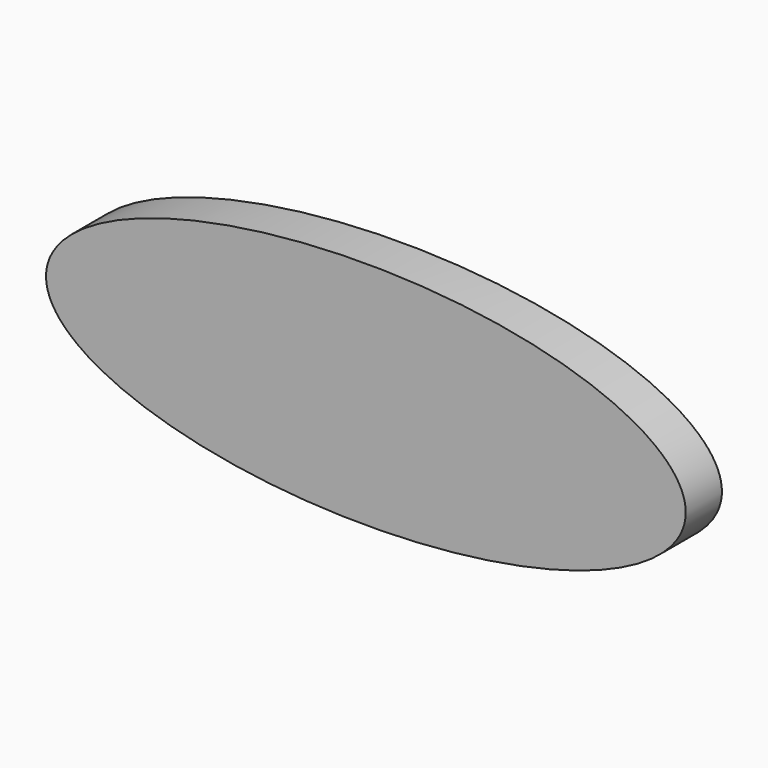
from build123d import *

# Parameters (mm, degrees)
F1_DEPTH = 2.286


with BuildPart() as f1:
    # F0 (on Front) → F1 (new body)
    with BuildSketch(Plane.XZ):
        with BuildLine():
            add(Edge.make_bspline(
                [(-27.813001, 26.7462), (-27.813001, 36.82179), (-52.044599, 31.783995), (-76.276198, 26.7462), (-52.044599, 21.708406), (-27.813001, 16.670611), (-27.813001, 26.7462)],
                knots=[0, 0, 0, 2.094395, 2.094395, 4.18879, 4.18879, 6.283185, 6.283185, 6.283185], degree=2, weights=[1, 0.5, 1, 0.5, 1, 0.5, 1]))
        make_face()
    extrude(amount=-F1_DEPTH)


solid = f1.part
